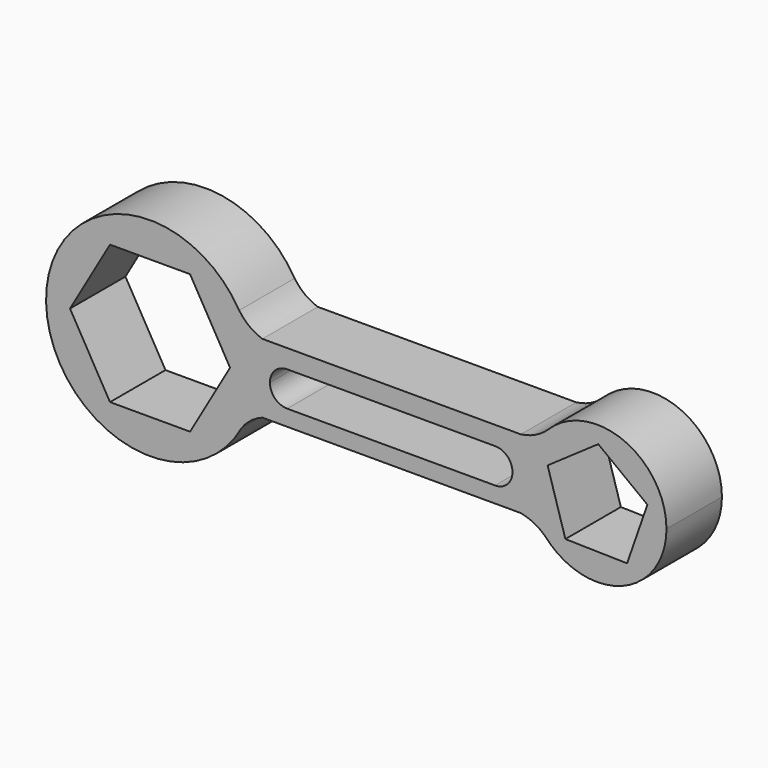
from build123d import *

# Parameters (mm, degrees)
F1_DEPTH = 20


with BuildPart() as f1:
    # F0 (on Front) → F1 (new body)
    with BuildSketch(Plane.XZ):
        with BuildLine():
            ThreePointArc((-31.564022, -34.272958), (-28.86842, -27.361554), (-27.95119, -20))
            ThreePointArc((-27.95119, -20), (-29.038725, -11.995667), (-32.22248, -4.571666))
            ThreePointArc((-32.22248, -4.571666), (-87.943821, -20.664917), (-31.564022, -34.272958))
        make_face()
        Polygon((-81.045201, -20), (-69.498196, 0), (-46.404185, 0), (-34.857179, -20), (-46.404185, -40), (-69.498196, -40), align=None, mode=Mode.SUBTRACT)
        with BuildLine():
            ThreePointArc((-32.22248, -4.571666), (-29.038725, -11.995667), (-27.95119, -20))
            ThreePointArc((-27.95119, -20), (-28.86842, -27.361554), (-31.564022, -34.272958))
            ThreePointArc((-31.564022, -34.272958), (-28.899342, -31.50905), (-25.543561, -29.643994))
            Line((-25.543561, -29.643994), (49.027583, -29.643994))
            ThreePointArc((49.027583, -29.643994), (52.771246, -30.916258), (56.009886, -33.18449))
            ThreePointArc((56.009886, -33.18449), (52.543536, -27.586492), (51.082842, -21.166248))
            ThreePointArc((51.082842, -21.166248), (51.04881, -20), (51.082842, -18.833752))
            ThreePointArc((51.082842, -18.833752), (52.785805, -11.847536), (56.849595, -5.915175))
            ThreePointArc((56.849595, -5.915175), (53.234344, -8.399995), (49.027583, -9.643994))
            Line((49.027583, -9.643994), (-25.543561, -9.643994))
            ThreePointArc((-25.543561, -9.643994), (-29.303291, -7.661216), (-32.22248, -4.571666))
        make_face()
        with BuildLine():
            ThreePointArc((-23.375466, -20.039103), (-21.911, -16.503569), (-18.375466, -15.039103))
            Line((-18.375466, -15.039103), (41.624534, -15.039103))
            ThreePointArc((41.624534, -15.039103), (45.160068, -16.503569), (46.624534, -20.039103))
            ThreePointArc((46.624534, -20.039103), (45.160068, -23.574637), (41.624534, -25.039103))
            Line((41.624534, -25.039103), (-18.375466, -25.039103))
            ThreePointArc((-18.375466, -25.039103), (-21.911, -23.574637), (-23.375466, -20.039103))
        make_face(mode=Mode.SUBTRACT)
        with BuildLine():
            ThreePointArc((91.04881, -20), (78.665098, -1.50697), (56.849595, -5.915175))
            ThreePointArc((56.849595, -5.915175), (52.785805, -11.847536), (51.082842, -18.833752))
            Line((51.082842, -18.833752), (51.082842, -21.166248))
            ThreePointArc((51.082842, -21.166248), (52.543536, -27.586492), (56.009886, -33.18449))
            ThreePointArc((56.009886, -33.18449), (78.092301, -38.718687), (91.04881, -20))
        make_face()
        Polygon((61.888116, -32.056341), (56.751738, -15.013277), (71.373428, -4.861695), (85.546506, -15.630736), (79.684261, -32.437952), align=None, mode=Mode.SUBTRACT)
    extrude(amount=F1_DEPTH)


solid = f1.part
